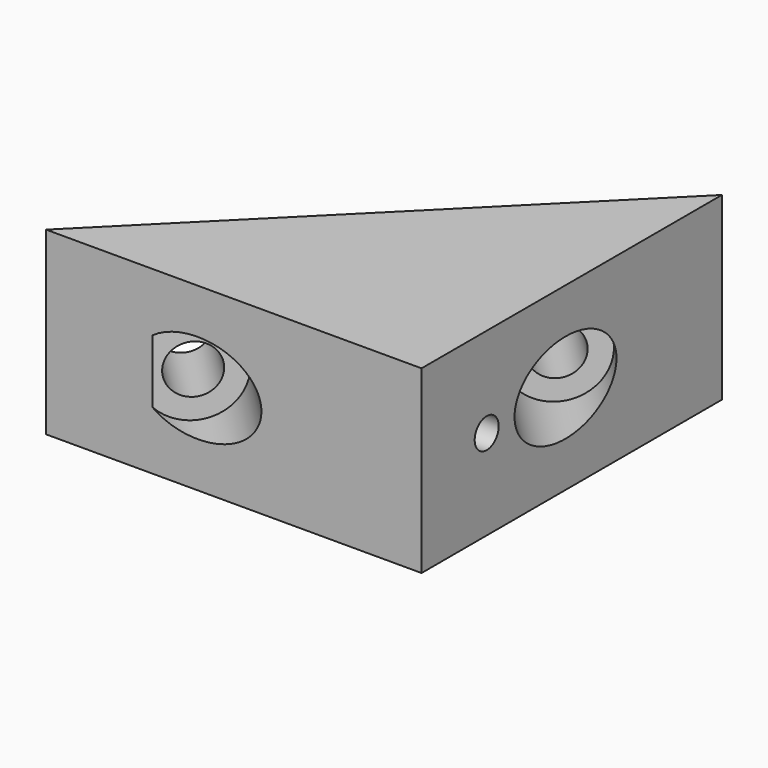
from build123d import *

# Parameters (mm, degrees)
F1_DEPTH = 24
F2_R     = 3.25
F3_DEPTH = 25
F4_START = -10
F2_R_2   = 6
F4_DEPTH = 15
F5_R     = 2
F6_DEPTH = 25


with BuildPart() as f1:
    # F0 (on Top) → F1 (new body)
    with BuildSketch(Plane.XY):
        Polygon((-50, 0), (0, 0), (0, 50), align=None)
    extrude(amount=F1_DEPTH)

    # F2 (on face) → F3 (cut)
    with BuildSketch(Plane(origin=(-25, 25, 0), x_dir=(-0.7071067812, -0.7071067812, 0), z_dir=(-0.7071067812, 0.7071067812, 0))):
        with Locations((-16.9469900429, 12)):
            Circle(F2_R)
        with Locations((21.0788715631, 12)):
            Circle(F2_R)
    extrude(amount=-F3_DEPTH, mode=Mode.SUBTRACT)

    # F2 (on face) → F4 (cut)
    with BuildSketch(Plane(origin=(-25, 25, 0), x_dir=(-0.7071067812, -0.7071067812, 0), z_dir=(-0.7071067812, 0.7071067812, 0)).offset(F4_START)):
        with Locations((21.0788715631, 12)):
            Circle(F2_R_2)
        with Locations((21.0788715631, 12)):
            Circle(F2_R, mode=Mode.SUBTRACT)
        with Locations((-16.9469900429, 12)):
            Circle(F2_R_2)
        with Locations((-16.9469900429, 12)):
            Circle(F2_R, mode=Mode.SUBTRACT)
    extrude(amount=-F4_DEPTH, mode=Mode.SUBTRACT)

    # F5 (on face) → F6 (cut)
    with BuildSketch(Plane.YZ):
        with Locations((10.8437594026, 12)):
            Circle(F5_R)
    extrude(amount=-F6_DEPTH, mode=Mode.SUBTRACT)


solid = f1.part
